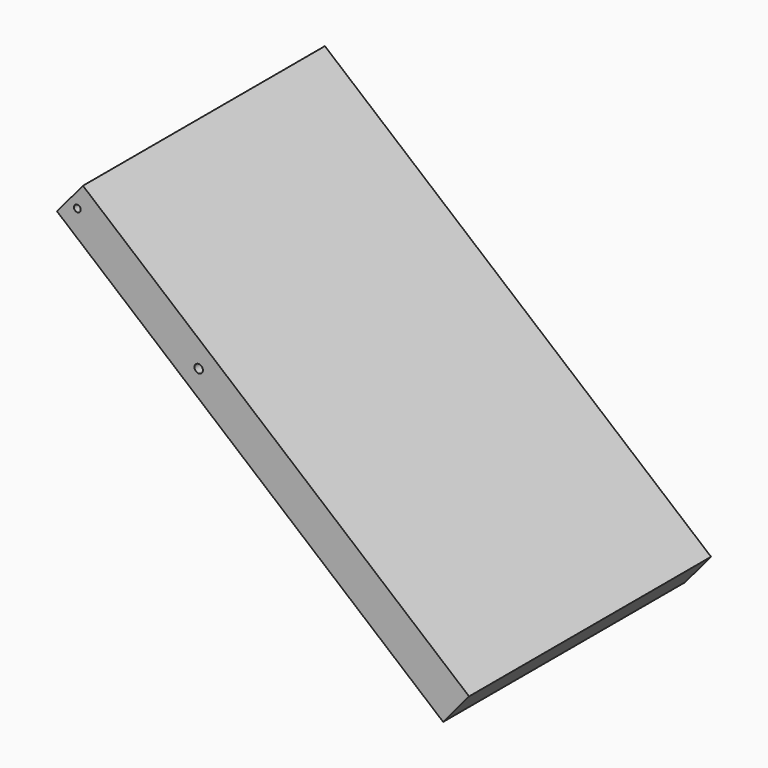
from build123d import *

# Parameters (mm, degrees)
F0_R     = 12.5
F0_R_2   = 10
F1_DEPTH = 900


with BuildPart() as f1:
    # F0 (on Front) → F1 (new body)
    with BuildSketch(Plane.XZ):
        Polygon((1126.032965, -864.181415), (-23.0337, 100), (-100.307716, 7.908414), (1048.898452, -956.106748), align=None)
        with Locations((321.421265, -267.356471)):
            Circle(F0_R, mode=Mode.SUBTRACT)
        with Locations((-39.744049, 34.920648)):
            Circle(F0_R_2, mode=Mode.SUBTRACT)
    extrude(amount=F1_DEPTH)


solid = f1.part
